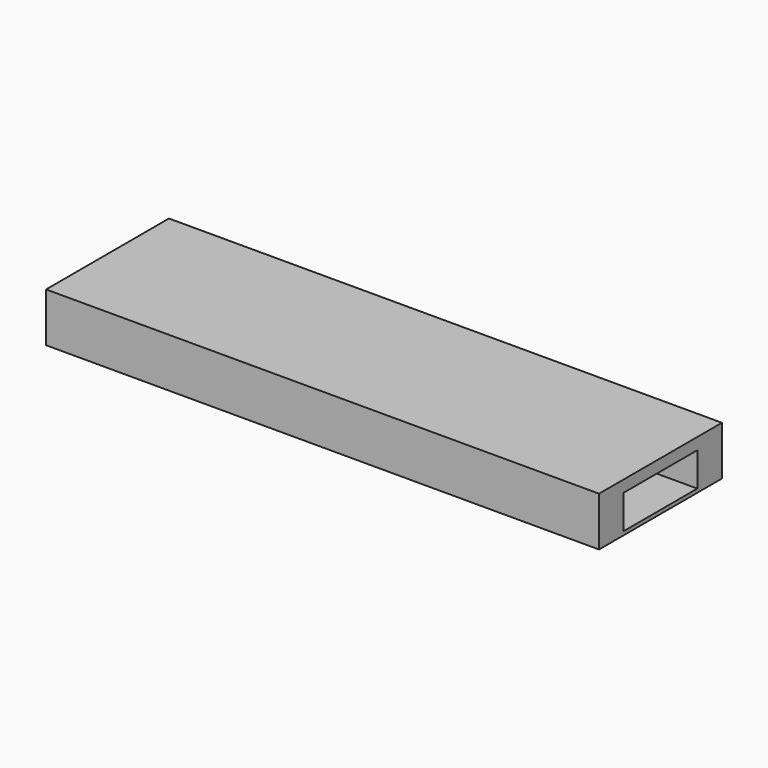
from build123d import *

# Parameters (mm, degrees)
SKETCH_W     = 90
SKETCH_H     = 25
PAD_DEPTH    = 8
SKETCH003_W  = 15
SKETCH003_H  = 5.5
POCKET_DEPTH = 95


with BuildPart() as part:
    # Sketch → Pad (new body)
    with BuildSketch(Plane.XY):
        with Locations((-45, 12.5)):
            Rectangle(SKETCH_W, SKETCH_H)
    extrude(amount=PAD_DEPTH)

    # Sketch003 (on Face4 of Pad) → Pocket (cut)
    with BuildSketch(Plane(origin=(-90, 0, 0), x_dir=(0, -1, 0), z_dir=(-1, 0, 0))):
        with Locations((-12.5, 3.35)):
            Rectangle(SKETCH003_W, SKETCH003_H)
    extrude(amount=-POCKET_DEPTH, mode=Mode.SUBTRACT)


solid = part.part
